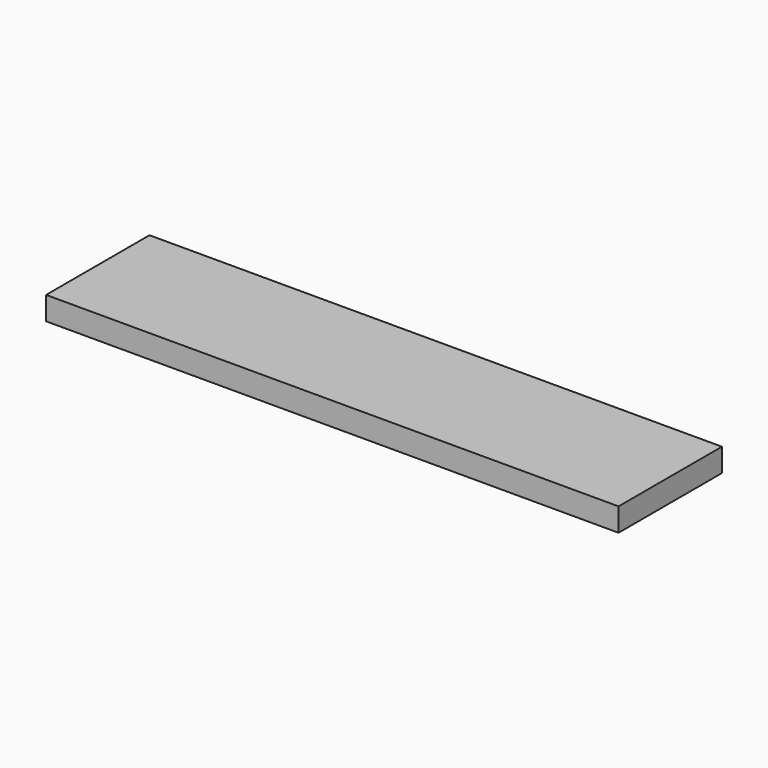
from build123d import *

# Parameters (mm, degrees)
SKETCH_W  = 443
SKETCH_H  = 100
PAD_DEPTH = 18


with BuildPart() as part:
    # Sketch → Pad (new body)
    with BuildSketch(Plane.XY):
        Rectangle(SKETCH_W, SKETCH_H)
    extrude(amount=PAD_DEPTH)


solid = part.part
